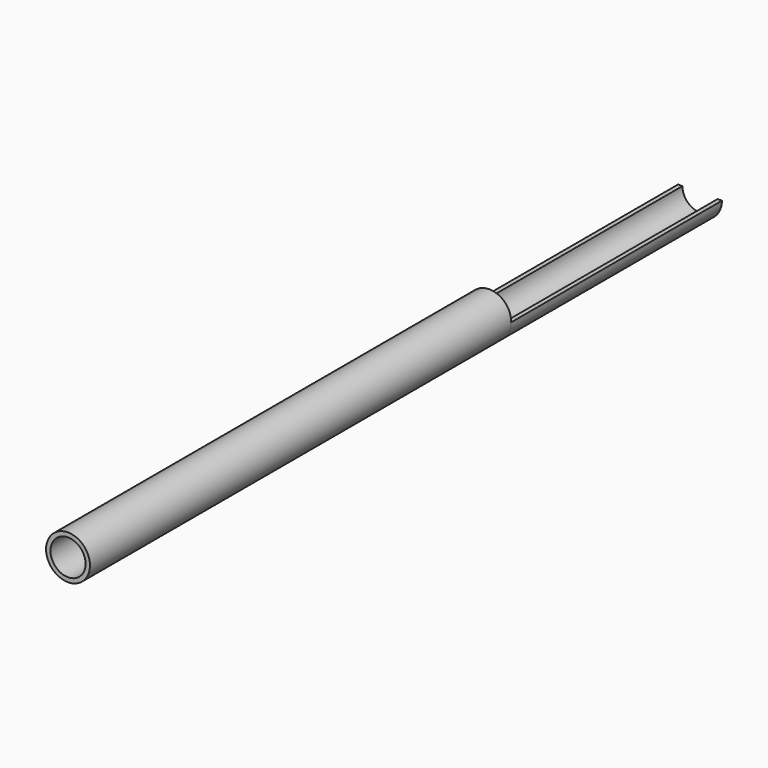
from build123d import *

# Parameters (mm, degrees)
F1_DEPTH = 152.4
F2_DEPTH = 76.2


with BuildPart() as f1:
    # F0 (on Front) → F1 (new body)
    with BuildSketch(Plane.XZ):
        with BuildLine():
            Line((5.08, 0), (6.35, 0))
            ThreePointArc((6.35, 0), (0, 6.35), (-6.35, 0))
            Line((-6.35, 0), (-5.08, 0))
            ThreePointArc((-5.08, 0), (0, 5.08), (5.08, 0))
        make_face()
        with BuildLine():
            ThreePointArc((-6.35, 0), (0, -6.35), (6.35, 0))
            Line((6.35, 0), (5.08, 0))
            ThreePointArc((5.08, 0), (0, -5.08), (-5.08, 0))
            Line((-5.08, 0), (-6.35, 0))
        make_face()
    extrude(amount=F1_DEPTH)

    # F0 (on Front) → F2 (join)
    with BuildSketch(Plane.XZ):
        with BuildLine():
            ThreePointArc((-6.35, 0), (0, -6.35), (6.35, 0))
            Line((6.35, 0), (5.08, 0))
            ThreePointArc((5.08, 0), (0, -5.08), (-5.08, 0))
            Line((-5.08, 0), (-6.35, 0))
        make_face()
    extrude(amount=-F2_DEPTH)


solid = f1.part
